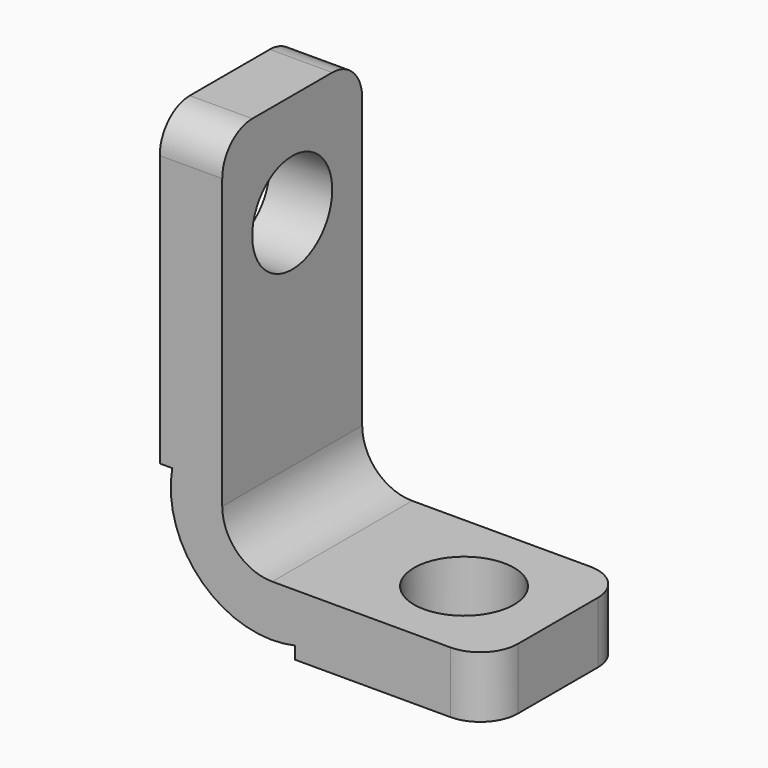
from build123d import *

# Parameters (mm, degrees)
PAD007_DEPTH    = 5.6
SKETCH011_R     = 1.6
POCKET002_DEPTH = 2
SKETCH012_R     = 1.6
POCKET003_DEPTH = 2
FILLET001_R     = 1.2


with BuildPart() as part:
    # Sketch010 → Pad007 (new body)
    with BuildSketch(Plane.XZ):
        with BuildLine():
            Line((0, 4.120568), (0, 14))
            Line((2, 14), (0, 14))
            Line((2, 14), (2, 3.564131))
            ThreePointArc((2, 3.564131), (2.468629, 2.43276), (3.6, 1.964131))
            Line((3.6, 1.964131), (10.5, 1.964131))
            Line((10.5, 1.964131), (10.5, 0))
            Line((10.5, 0), (4.333415, 0))
            Line((4.333415, 0), (4.333415, 0.4))
            ThreePointArc((0.4, 4.120568), (1.368035, 1.204479), (4.333415, 0.4))
            Line((0, 4.120568), (0.4, 4.120568))
        make_face()
    extrude(amount=PAD007_DEPTH)

    # Sketch011 (on Face4 of Pad007) → Pocket002 (cut)
    with BuildSketch(Plane(origin=(2, 0, 0), x_dir=(0, 0, 1), z_dir=(1, 0, 0))):
        with Locations((10.7, 2.8)):
            Circle(SKETCH011_R)
    extrude(amount=-POCKET002_DEPTH, mode=Mode.SUBTRACT)

    # Sketch012 (on Face11 of Pocket002) → Pocket003 (cut)
    with BuildSketch(Plane(origin=(0, 0, 1.964131), x_dir=(-1, 0, 0), z_dir=(0, 0, 1))):
        with Locations((-7.5, 2.8)):
            Circle(SKETCH012_R)
    extrude(amount=-POCKET003_DEPTH, mode=Mode.SUBTRACT)

    # Fillet001
    fillet001_edges = [part.edges().sort_by_distance(p)[0] for p in [
        (1, 0, 14),
        (1, -5.6, 14),
        (10.5, -5.6, 0.982065),
        (10.5, 0, 0.982065),
    ]]
    fillet(fillet001_edges, radius=FILLET001_R)


with BuildPart() as part_1:
    # Body005 placement: moved
    add(part.part.moved(Location((1.6, 28.6, 0))))


solid = part_1.part
